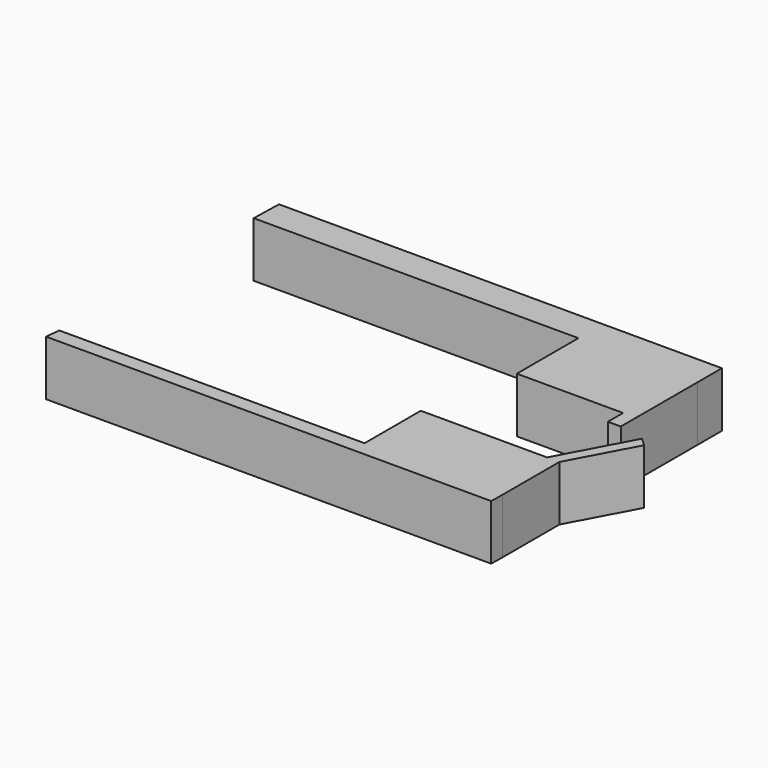
from build123d import *

# Parameters (mm, degrees)
F0_W     = 48.9641427994
F0_H     = 5.7181753218
F0_H_2   = 29.7665968537
F1_DEPTH = 25.4


with BuildPart() as f1:
    # F0 (on Top) → F1 (new body)
    with BuildSketch(Plane.XY):
        Polygon((82.2217017412, 56.1284311116), (76.2321278453, 56.1284311116), (76.2321278453, 50.4102557898), (76.2321278453, 20.643658936), (76.2321278453, 11.873322539), (82.1848511696, 11.873322539), align=None)
        Polygon((27.2679850459, 56.1284311116), (76.2321278453, 56.1284311116), (82.2217017412, 56.1284311116), (82.2217017412, 70.08125633), (-121.9809266551, 70.2512928259), (-122.3282516003, 56.1284311116), (18.3303970844, 56.1284311116), align=None)
        with Locations((51.7500564456, 53.2693434507)):
            Rectangle(F0_W, F0_H)
        with Locations((51.7500564456, 35.5269573629)):
            Rectangle(F0_W, F0_H_2)
    extrude(amount=F1_DEPTH)


with BuildPart() as f1b:
    # F0 (on Top) → F1, piece 2 (new body)
    with BuildSketch(Plane.XY):
        Polygon((18.3303970844, -55.8585859835), (-122.3282516003, -55.8585859835), (-123.0027005076, -62.6047924161), (82.0819586515, -62.6047924161), (82.1848511696, -56.1284311116), (76.5180364251, -55.8585859835), (27.2679850459, -55.8585859835), align=None)
        Polygon((18.3303970844, -23.4767962247), (18.3303970844, -55.8585859835), (27.2679850459, -55.8585859835), (27.2679850459, -38.5079085827), (27.2679850459, -23.4767962247), align=None)
        Polygon((27.2679850459, -38.5079085827), (27.2679850459, -55.8585859835), (76.5180364251, -55.8585859835), (76.5180364251, -23.4767962247), (27.2679850459, -23.4767962247), align=None)
        Polygon((76.5180364251, -23.4767962247), (76.5180364251, -55.8585859835), (82.1848511696, -56.1284311116), (82.1848511696, -23.4767962247), align=None)
        Polygon((94.0572333674, 9.2199633728), (76.5180364251, -23.4767962247), (82.1848511696, -23.4767962247), (97.8682488203, 5.7603623718), align=None)
    extrude(amount=F1_DEPTH)


solid = Compound([f1.part, f1b.part])
